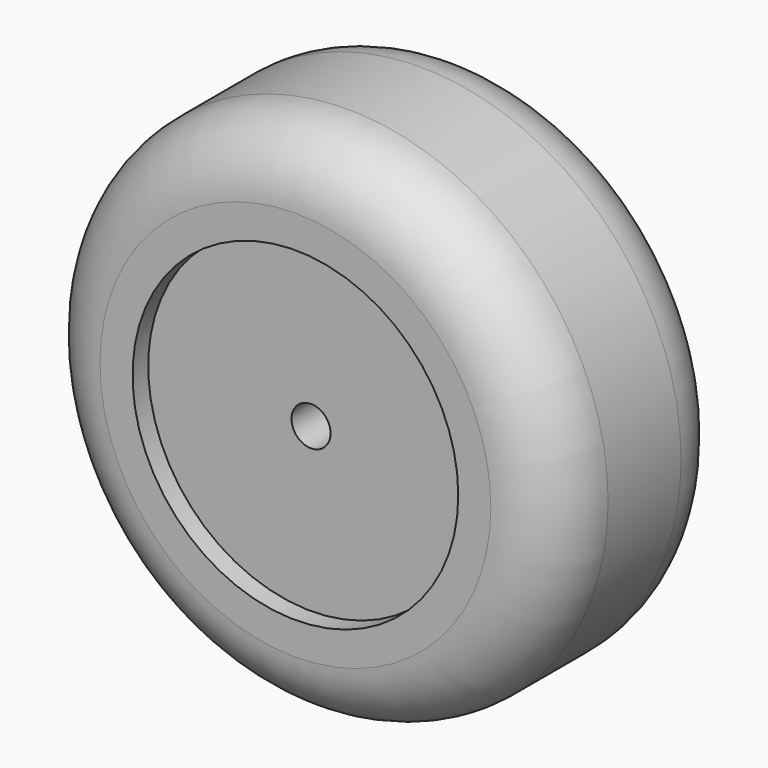
from build123d import *

# Parameters (mm, degrees)
F0_R     = 20
F0_R_2   = 1.5
F1_DEPTH = 17
F2_R     = 12.5
F3_DEPTH = 1.5
F4_R     = 12.5
F5_DEPTH = 1.5
F6_R     = 5


with BuildPart() as f1:
    # F0 (on Front) → F1 (new body)
    with BuildSketch(Plane.XZ):
        Circle(F0_R)
        Circle(F0_R_2, mode=Mode.SUBTRACT)
    extrude(amount=F1_DEPTH)

    # F2 (on face) → F3 (cut)
    with BuildSketch(Plane.XZ.offset(17)):
        Circle(F2_R)
    extrude(amount=-F3_DEPTH, mode=Mode.SUBTRACT)

    # F4 (on face) → F5 (cut)
    with BuildSketch(Plane(origin=(0, 0, 0), x_dir=(-1, 0, 0), z_dir=(0, 1, 0))):
        Circle(F4_R)
    extrude(amount=-F5_DEPTH, mode=Mode.SUBTRACT)

    # F6
    f6_edges = [f1.edges().sort_by_distance(p)[0] for p in [
        (-20, 0, 0),
        (-20, -17, 0),
    ]]
    fillet(f6_edges, radius=F6_R)


solid = f1.part
